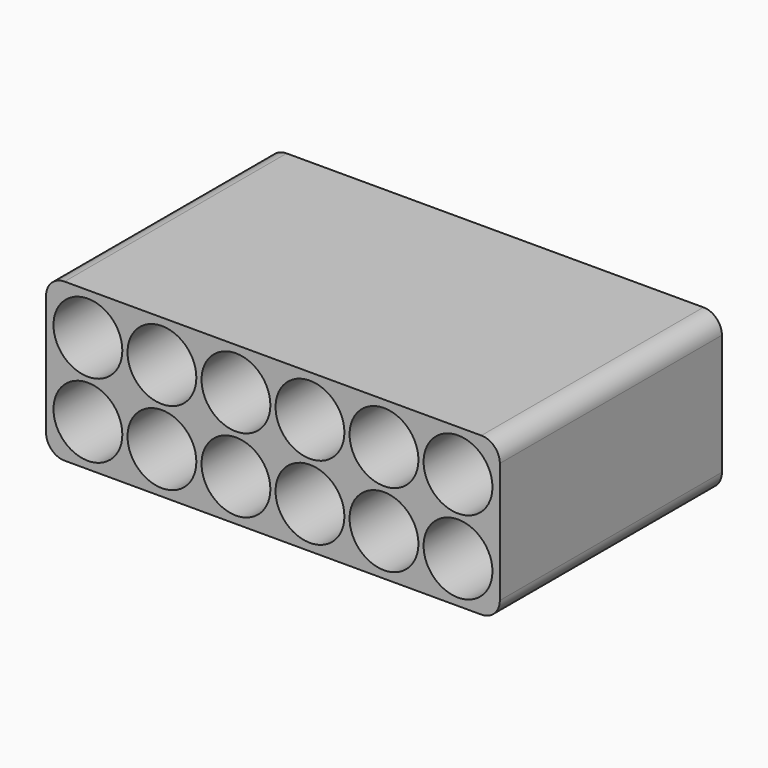
from build123d import *

# Parameters (mm, degrees)
F0_R     = 9.3
F1_DEPTH = 75
F2_R     = 5


with BuildPart() as f1:
    # F0 (on Front) → F1 (new body)
    with BuildSketch(Plane.XZ):
        Polygon((0, -11.3), (111.3, -11.3), (111.3, 31.3), (-11.3, 31.3), (-11.3, -9.3), (-11.3, -11.3), (-9.3, -11.3), align=None)
        Circle(F0_R, mode=Mode.SUBTRACT)
        with Locations((20, 0)):
            Circle(F0_R, mode=Mode.SUBTRACT)
        with Locations((40, 0)):
            Circle(F0_R, mode=Mode.SUBTRACT)
        with Locations((60, 0)):
            Circle(F0_R, mode=Mode.SUBTRACT)
        with Locations((80, 0)):
            Circle(F0_R, mode=Mode.SUBTRACT)
        with Locations((100, 0)):
            Circle(F0_R, mode=Mode.SUBTRACT)
        with Locations((0, 20)):
            Circle(F0_R, mode=Mode.SUBTRACT)
        with Locations((20, 20)):
            Circle(F0_R, mode=Mode.SUBTRACT)
        with Locations((40, 20)):
            Circle(F0_R, mode=Mode.SUBTRACT)
        with Locations((60, 20)):
            Circle(F0_R, mode=Mode.SUBTRACT)
        with Locations((80, 20)):
            Circle(F0_R, mode=Mode.SUBTRACT)
        with Locations((100, 20)):
            Circle(F0_R, mode=Mode.SUBTRACT)
    extrude(amount=F1_DEPTH)

    # F2
    f2_edges = [f1.edges().sort_by_distance(p)[0] for p in [
        (111.3, -37.5, 31.3),
        (111.3, -37.5, -11.3),
        (-11.3, -37.5, 31.3),
        (-11.3, -37.5, -11.3),
    ]]
    fillet(f2_edges, radius=F2_R)


solid = f1.part
